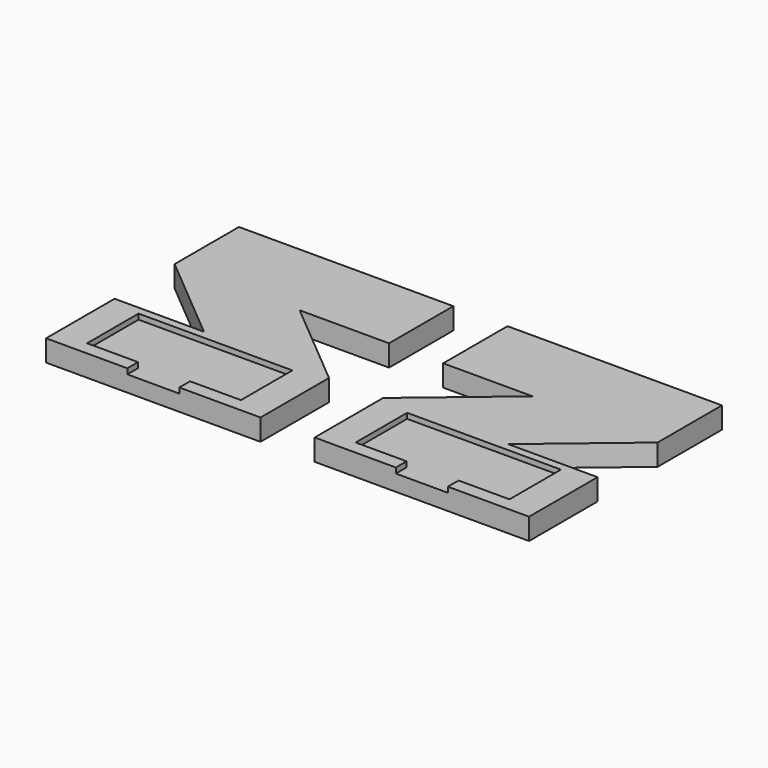
from build123d import *

# Parameters (mm, degrees)
F1_DEPTH = 4
F2_DEPTH = 1
F4_ANGLE = 180


with BuildPart() as f1:
    # F0 (on Top) → F1 (new body)
    with BuildSketch(Plane.XY):
        Polygon((0, 15.973381), (0, 0), (15.15, 0), (15.15, 2.5), (5.65, 2.5), (5.65, 14.5), (34.35, 14.5), (34.35, 2.5), (24.85, 2.5), (24.85, 0), (40, 0), (40, 15.973381), (23.326659, 15.973381), align=None)
        Polygon((15.15, 2.5), (15.15, 0), (24.85, 0), (24.85, 2.5), (34.35, 2.5), (34.35, 14.5), (5.65, 14.5), (5.65, 2.5), align=None)
        Polygon((16.673341, 29.973381), (0, 15.973381), (23.326659, 15.973381), (40, 29.973381), align=None)
        Polygon((0, 29.973381), (16.673341, 29.973381), (40, 29.973381), (40, 44.973381), (0, 44.973381), align=None)
    extrude(amount=-F1_DEPTH)

    # F0 (on Top) → F2 (cut)
    with BuildSketch(Plane.XY):
        Polygon((15.15, 2.5), (15.15, 0), (24.85, 0), (24.85, 2.5), (34.35, 2.5), (34.35, 14.5), (5.65, 14.5), (5.65, 2.5), align=None)
    extrude(amount=-F2_DEPTH, mode=Mode.SUBTRACT)


with BuildPart() as f3_1:
    # F3: instance of F1
    add(f1.part.mirror(Plane.XY))


with BuildPart() as f3_1_1:
    # F4: moved
    add(f3_1.part.rotate(Axis((0, 7.98669, 0), (0, 1, 0)), F4_ANGLE))


with BuildPart() as f3_1_2:
    # F5: moved
    add(f3_1_1.part.moved(Location((-10.1, 0, 0))))


solid = Compound([f1.part, f3_1_2.part])
